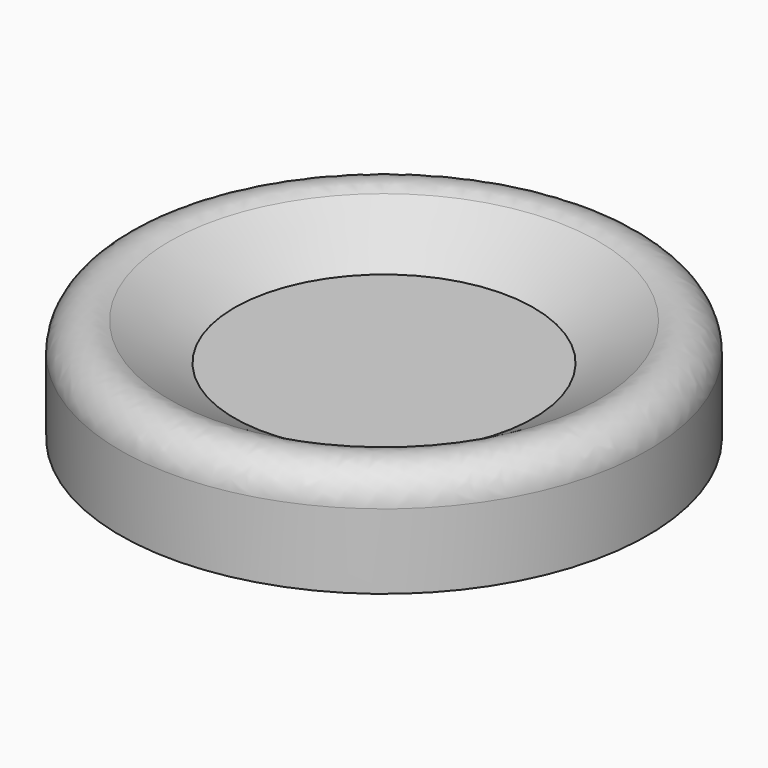
from build123d import *

# Parameters (mm, degrees)
F2_R = 5


with BuildPart() as f1:
    # F0 (on Front) → F1 (revolve)
    with BuildSketch(Plane.XZ):
        Polygon((-40, 0), (0, 0), (0, 10), (-22.679492, 10), (-40, 20), align=None)
    revolve(axis=Axis((0, 0, 5), (0, 0, -1)))

    # F2
    f2_edges = [f1.edges().sort_by_distance(p)[0] for p in [
        (40, 0, 20),
    ]]
    fillet(f2_edges, radius=F2_R)


solid = f1.part
